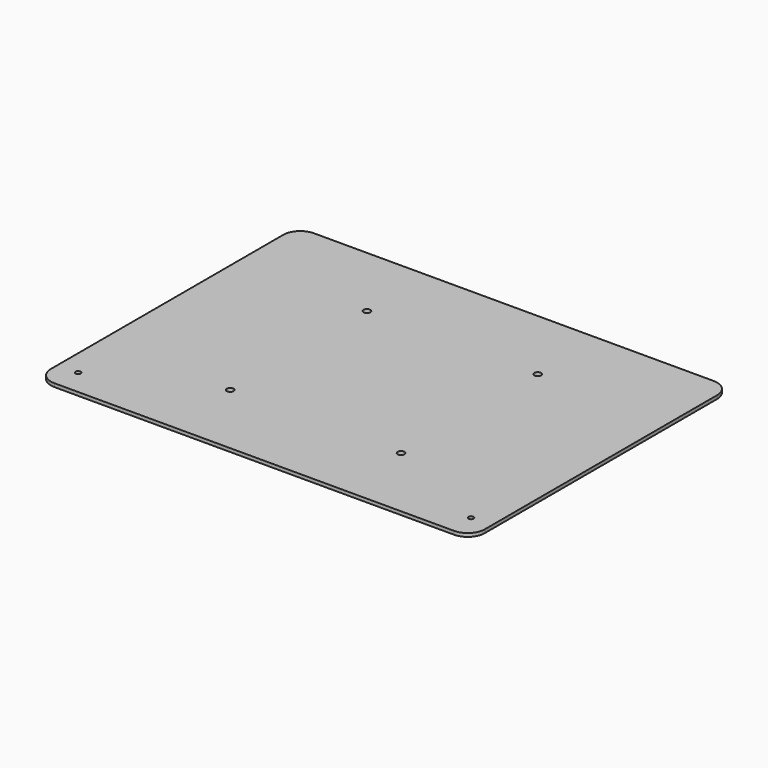
from build123d import *

# Parameters (mm, degrees)
F0_W     = 254
F0_H     = 190
F1_DEPTH = 2
F2_R     = 10
F4_D     = 4
F6_D     = 3


with BuildPart() as f1:
    # F0 (on Top) → F1 (new body)
    with BuildSketch(Plane.XY):
        Rectangle(F0_W, F0_H)
    extrude(amount=F1_DEPTH)

    # F2
    f2_edges = [f1.edges().sort_by_distance(p)[0] for p in [
        (-127, -95, 1),
        (127, -95, 1),
        (-127, 95, 1),
        (127, 95, 1),
    ]]
    fillet(f2_edges, radius=F2_R)

    # F4 (through all)
    with Locations(Plane.XY.offset(2)):
        with Locations((-50, 50), (50, 50), (50, -50), (-50, -50)):
            Hole(F4_D / 2)

    # F6 (through all)
    with Locations(Plane.XY.offset(2)):
        with Locations((-115, -80), (115, -80)):
            Hole(F6_D / 2)


solid = f1.part
